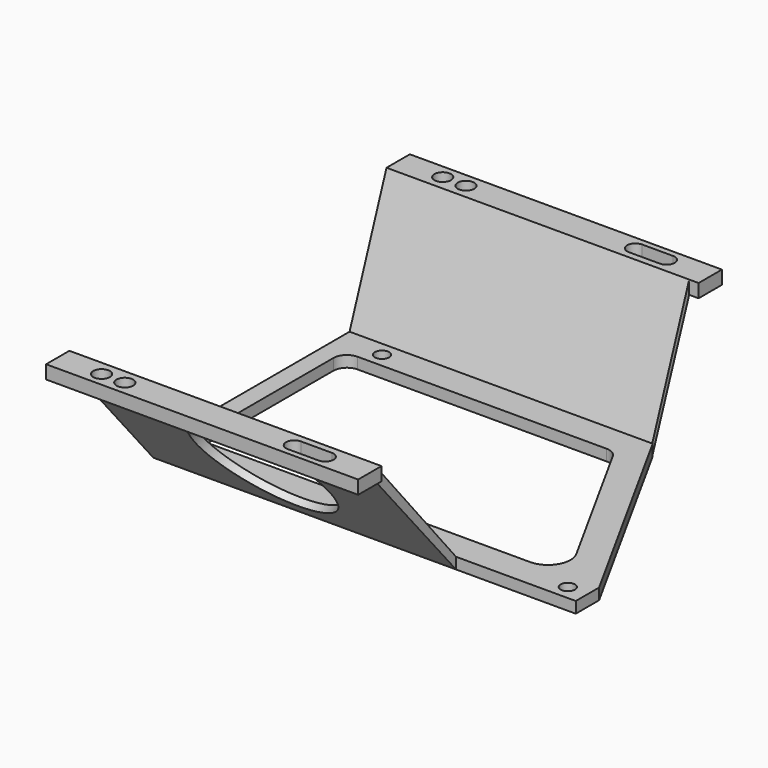
from build123d import *

# Parameters (mm, degrees)
F2_W      = 69.6
F2_H      = 6.5
F2_R      = 1.85
F3_DEPTH  = 3
F4_R      = 1.6
F6_DEPTH  = 2.5
F8_DEPTH  = 67.5
F9_R      = 15
F10_DEPTH = 25


with BuildPart() as f3:
    # F2 (on offset) → F3 (new body)
    with BuildSketch(Plane.XY.offset(25)):
        with Locations((-74.4531251728, 36.8302476406)):
            Rectangle(F2_W, F2_H)
        with Locations((-99.4031251728, 36.9302476406)):
            Circle(F2_R, mode=Mode.SUBTRACT)
        with Locations((-94.2131251728, 36.9302476406)):
            Circle(F2_R, mode=Mode.SUBTRACT)
        with BuildLine():
            ThreePointArc((-56.4131251728, 35.0802476406), (-58.2631251728, 36.9302476406), (-56.4131251728, 38.7802476406))
            Line((-56.4131251728, 38.7802476406), (-49.5031251728, 38.7802476406))
            ThreePointArc((-49.5031251728, 38.7802476406), (-47.6531251728, 36.9302476406), (-49.5031251728, 35.0802476406))
            Line((-49.5031251728, 35.0802476406), (-56.4131251728, 35.0802476406))
        make_face(mode=Mode.SUBTRACT)
    extrude(amount=F3_DEPTH)


with BuildPart() as f3b:
    # F2 (on offset) → F3, piece 2 (new body)
    with BuildSketch(Plane.XY.offset(25)):
        with Locations((-74.4531251728, -58.0697523594)):
            Rectangle(F2_W, F2_H)
        with Locations((-99.4031251728, -58.1697523594)):
            Circle(F2_R, mode=Mode.SUBTRACT)
        with Locations((-94.2131251728, -58.1697523594)):
            Circle(F2_R, mode=Mode.SUBTRACT)
        with BuildLine():
            ThreePointArc((-56.4131251728, -60.0197523594), (-58.2631251728, -58.1697523594), (-56.4131251728, -56.3197523594))
            Line((-56.4131251728, -56.3197523594), (-49.5031251728, -56.3197523594))
            ThreePointArc((-49.5031251728, -56.3197523594), (-47.6531251728, -58.1697523594), (-49.5031251728, -60.0197523594))
            Line((-49.5031251728, -60.0197523594), (-56.4131251728, -60.0197523594))
        make_face(mode=Mode.SUBTRACT)
    extrude(amount=F3_DEPTH)


with BuildPart() as f6:
    # F4 (on Top) → F6 (new body)
    with BuildSketch(Plane.XY):
        Polygon((-41.6441885754, 23.2802476406), (-109.2531251728, 23.2802476406), (-109.2531251728, 16.7802476406), (-109.2531251728, -24.9197523594), (-109.2531251728, -31.4197523594), (-15.048397198, -31.4197523594), (-15.048397198, -24.9197523594), align=None)
        with Locations((-19.4231251728, -28.1697523594)):
            Circle(F4_R, mode=Mode.SUBTRACT)
        with BuildLine():
            ThreePointArc((-105.2531251728, 13.7802476406), (-104.3744455164, 15.9015679842), (-102.2531251728, 16.7802476406))
            Line((-102.2531251728, 16.7802476406), (-46.7366417344, 16.7802476406))
            ThreePointArc((-46.7366417344, 16.7802476406), (-45.2115241933, 16.3636594324), (-44.1099706414, 15.2295919644))
            Line((-44.1099706414, 15.2295919644), (-26.0481339213, -17.5041784864))
            ThreePointArc((-26.0481339213, -17.5041784864), (-26.1202327568, -22.4616149279), (-30.4259190764, -24.9197523594))
            Line((-30.4259190764, -24.9197523594), (-102.2531251728, -24.9197523594))
            ThreePointArc((-102.2531251728, -24.9197523594), (-104.3744455164, -24.0410727029), (-105.2531251728, -21.9197523594))
            Line((-105.2531251728, -21.9197523594), (-105.2531251728, 13.7802476406))
        make_face(mode=Mode.SUBTRACT)
        with Locations((-99.4031251728, 20.0302476406)):
            Circle(F4_R, mode=Mode.SUBTRACT)
    extrude(amount=-F6_DEPTH)


with BuildPart() as f8:
    # F7 (on face) → F8 (new body)
    with BuildSketch(Plane(origin=(-109.2531251728, 0, 0), x_dir=(0, -1, 0), z_dir=(-1, 0, 0))):
        Polygon((-23.2802476406, 0), (-33.5802476406, 28), (-33.5802476406, 25), (-23.2802476406, -2.5), align=None)
    extrude(amount=-F8_DEPTH)


with BuildPart() as f8b:
    # F7 (on face) → F8, piece 2 (new body)
    with BuildSketch(Plane(origin=(-109.2531251728, 0, 0), x_dir=(0, -1, 0), z_dir=(-1, 0, 0))):
        Polygon((54.8197523594, 28), (31.4197523594, 0), (31.4197523594, -2.5), (54.8197523594, 25), align=None)
    extrude(amount=-F8_DEPTH)

    # F9 (on face) → F10 (cut)
    with BuildSketch(Plane(origin=(0, -19.4583088961, -16.5572519334), x_dir=(1, 0, 0), z_dir=(0, -0.761597553, -0.6480502814))):
        with Locations((-75.5031251728, 36.5117401236)):
            Circle(F9_R)
    extrude(amount=-F10_DEPTH, mode=Mode.SUBTRACT)


solid = Compound([f3.part, f3b.part, f6.part, f8.part, f8b.part])
